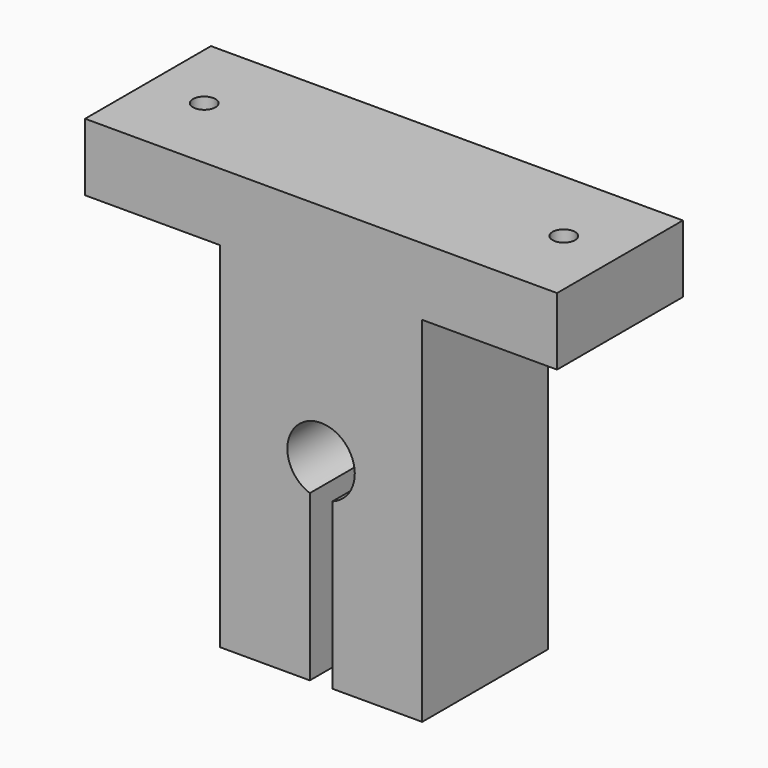
from build123d import *

# Parameters (mm, degrees)
F0_R     = 3
F1_DEPTH = 14
F3_DEPTH = 25
F4_R     = 1
F5_DEPTH = 20.001


with BuildPart() as f1:
    # F0 (on Front) → F1 (new body)
    with BuildSketch(Plane.XZ):
        Polygon((21, 20), (-21, 20), (-21, 14), (-9, 14), (-9, -17.5), (9, -17.5), (9, 14), (21, 14), align=None)
        Circle(F0_R, mode=Mode.SUBTRACT)
    extrude(amount=F1_DEPTH)

    # F2 (on Front) → F3 (cut)
    with BuildSketch(Plane.XZ):
        with BuildLine():
            Line((-1, -17.5), (1, -17.5))
            Line((1, -17.5), (1, -2.828427))
            ThreePointArc((1, -2.828427), (0, -3), (-1, -2.828427))
            Line((-1, -2.828427), (-1, -17.5))
        make_face()
    extrude(amount=F3_DEPTH, mode=Mode.SUBTRACT)

    # F4 (on Top) → F5 (cut, through all)
    with BuildSketch(Plane.XY):
        with Locations((-16, -7)):
            Circle(F4_R)
        with BuildLine():
            ThreePointArc((17, -7), (16, -6), (15, -7))
            ThreePointArc((15, -7), (16, -8), (17, -7))
        make_face()
    extrude(amount=F5_DEPTH, mode=Mode.SUBTRACT)


solid = f1.part
